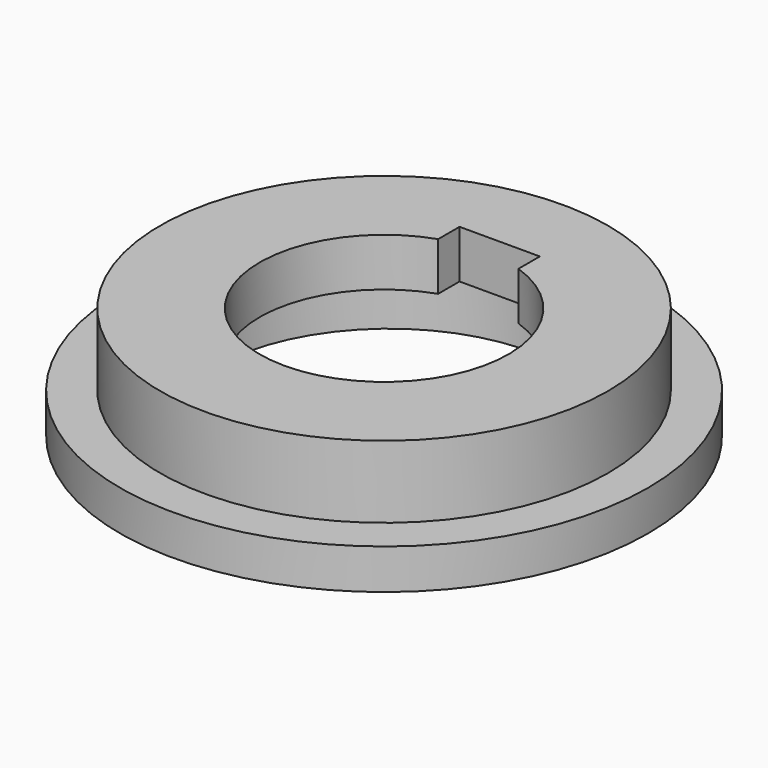
from build123d import *

# Parameters (mm, degrees)
F0_R     = 13.95
F1_DEPTH = 7
F2_R     = 11
F3_DEPTH = 4
F4_R     = 7.75
F5_DEPTH = 25
F6_W     = 2.5
F6_H     = 2.5
F8_W     = 5
F8_H     = 9
F9_DEPTH = 25


with BuildPart() as f1:
    # F0 (on Top) → F1 (new body)
    with BuildSketch(Plane.XY):
        Circle(F0_R)
    extrude(amount=F1_DEPTH)

    # F2 (on face) → F3 (cut)
    with BuildSketch(Plane(origin=(0, 0, 0), x_dir=(1, 0, 0), z_dir=(0, 0, -1))):
        with Locations((0, -0.393073)):
            Circle(F2_R)
    extrude(amount=-F3_DEPTH, mode=Mode.SUBTRACT)

    # F4 (on face) → F5 (cut)
    with BuildSketch(Plane(origin=(0, 0, 4), x_dir=(1, 0, 0), z_dir=(0, 0, -1))):
        Circle(F4_R)
    extrude(amount=-F5_DEPTH, mode=Mode.SUBTRACT)

    # F6 (on Front) → F7 (revolve)
    with BuildSketch(Plane.XZ):
        with Locations((15.190209, 1.25)):
            Rectangle(F6_W, F6_H)
    revolve(axis=Axis((0, 0, 5.198275), (0, 0, 1)))

    # F8 (on Top) → F9 (cut)
    with BuildSketch(Plane.XY):
        with Locations((0, 4.5)):
            Rectangle(F8_W, F8_H)
    extrude(amount=F9_DEPTH, mode=Mode.SUBTRACT)


solid = f1.part
